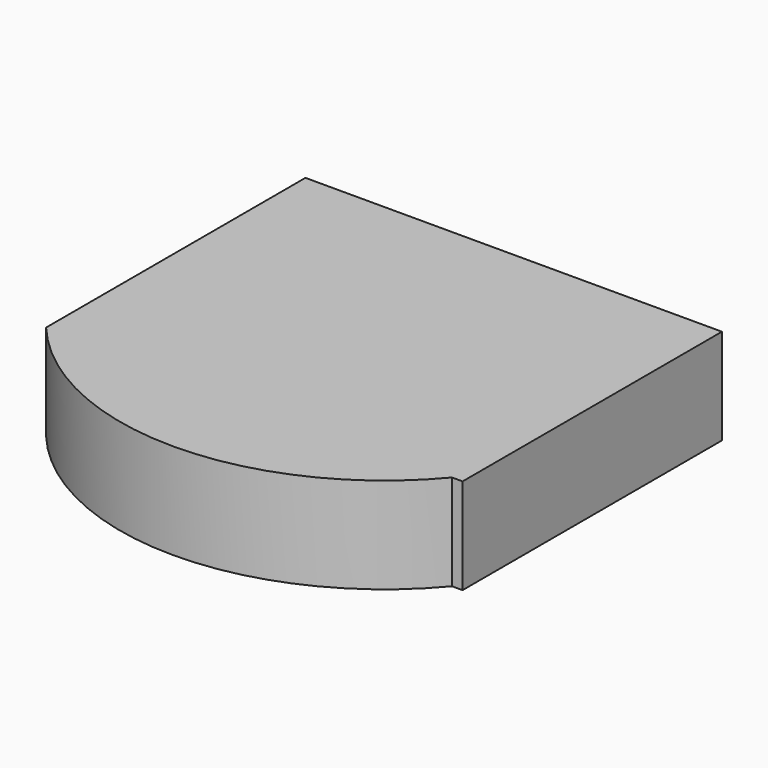
from build123d import *

# Parameters (mm, degrees)
F1_DEPTH = 25.4


with BuildPart() as f1:
    # F0 (on Top) → F1 (new body)
    with BuildSketch(Plane.XY):
        with BuildLine():
            Line((55.856569, -47.884267), (58.661535, -47.884267))
            Line((58.661535, -47.884267), (58.661535, -44.291846))
            ThreePointArc((58.661535, -44.291846), (57.288251, -46.110855), (55.856569, -47.884267))
        make_face()
        with BuildLine():
            ThreePointArc((-51.805422, -47.884267), (2.025573, -73.074552), (55.856569, -47.884267))
            Line((55.856569, -47.884267), (-51.805422, -47.884267))
        make_face()
        with BuildLine():
            Line((-51.805422, -47.884267), (55.856569, -47.884267))
            ThreePointArc((55.856569, -47.884267), (57.288251, -46.110855), (58.661535, -44.291846))
            Line((58.661535, -44.291846), (58.661535, 38.102686))
            Line((58.661535, 38.102686), (-51.805422, 38.102686))
            Line((-51.805422, 38.102686), (-51.805422, -47.884267))
        make_face()
    extrude(amount=F1_DEPTH)


solid = f1.part
